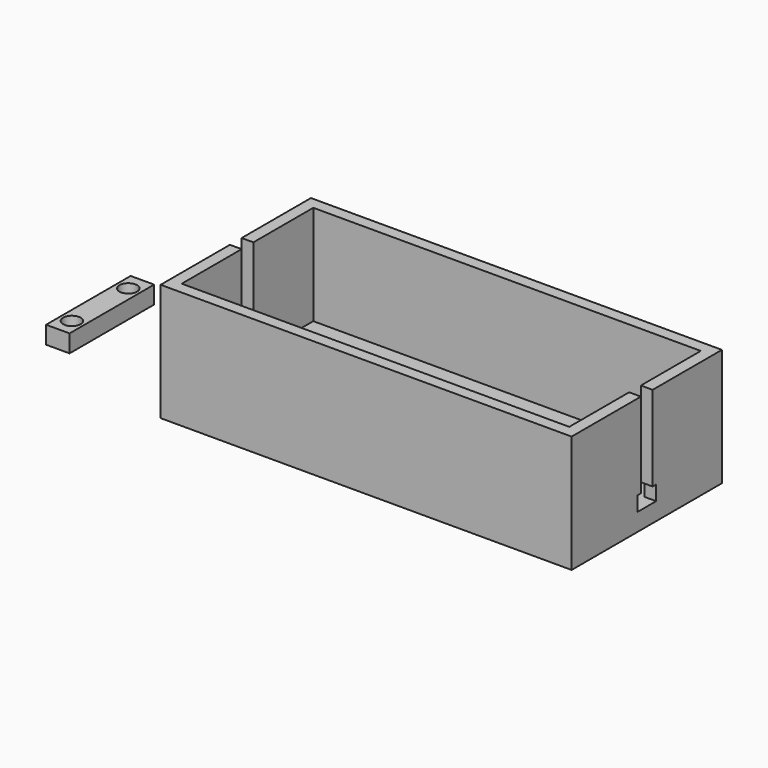
from build123d import *

# Parameters (mm, degrees)
SKETCH_W          = 70
SKETCH_H          = 32
SKETCH_R          = 1
PAD_DEPTH         = 3
SKETCH001_W       = 70
SKETCH001_H       = 32
SKETCH001_W_2     = 66
SKETCH001_H_2     = 28
PAD001_DEPTH      = 20
POCKET_DEPTH      = 35.001
POCKET_DEPTH_BACK = -35.001
SKETCH003_W       = 4
SKETCH003_H       = 18
SKETCH003_R       = 1.5
PAD002_DEPTH      = 3


with BuildPart() as body:
    # Sketch → Pad (new body)
    with BuildSketch(Plane.XY):
        Rectangle(SKETCH_W, SKETCH_H)
        with Locations((-17.599716, 9.5)):
            Circle(SKETCH_R, mode=Mode.SUBTRACT)
        with Locations((17.599716, -9.5)):
            Circle(SKETCH_R, mode=Mode.SUBTRACT)
        with Locations((-30, 6)):
            Circle(SKETCH_R, mode=Mode.SUBTRACT)
        with Locations((-30, -6)):
            Circle(SKETCH_R, mode=Mode.SUBTRACT)
        with Locations((30, 6)):
            Circle(SKETCH_R, mode=Mode.SUBTRACT)
        with Locations((30, -6)):
            Circle(SKETCH_R, mode=Mode.SUBTRACT)
    extrude(amount=PAD_DEPTH)

    # Sketch001 → Pad001 (join)
    with BuildSketch(Plane.XY):
        Rectangle(SKETCH001_W, SKETCH001_H)
        Rectangle(SKETCH001_W_2, SKETCH001_H_2, mode=Mode.SUBTRACT)
    extrude(amount=PAD001_DEPTH)

    # Sketch002 → Pocket (cut, two sides)
    with BuildSketch(Plane.YZ) as pocket_sk:
        Polygon((-2, 5.5), (-2, 3), (2, 3), (2, 5.5), (1.25, 5.5), (1.25, 20), (-1.25, 20), (-1.25, 5.5), align=None)
    extrude(amount=-POCKET_DEPTH, mode=Mode.SUBTRACT)
    extrude(pocket_sk.sketch, amount=-POCKET_DEPTH_BACK, mode=Mode.SUBTRACT)


with BuildPart() as body001:
    # Sketch003 → Pad002 (new body)
    with BuildSketch(Plane.XY):
        with Locations((-58.107944, 0)):
            Rectangle(SKETCH003_W, SKETCH003_H)
        with Locations((-58.107944, 6)):
            Circle(SKETCH003_R, mode=Mode.SUBTRACT)
        with Locations((-58.107944, -6)):
            Circle(SKETCH003_R, mode=Mode.SUBTRACT)
    extrude(amount=PAD002_DEPTH)


solid = Compound([body.part, body001.part])
